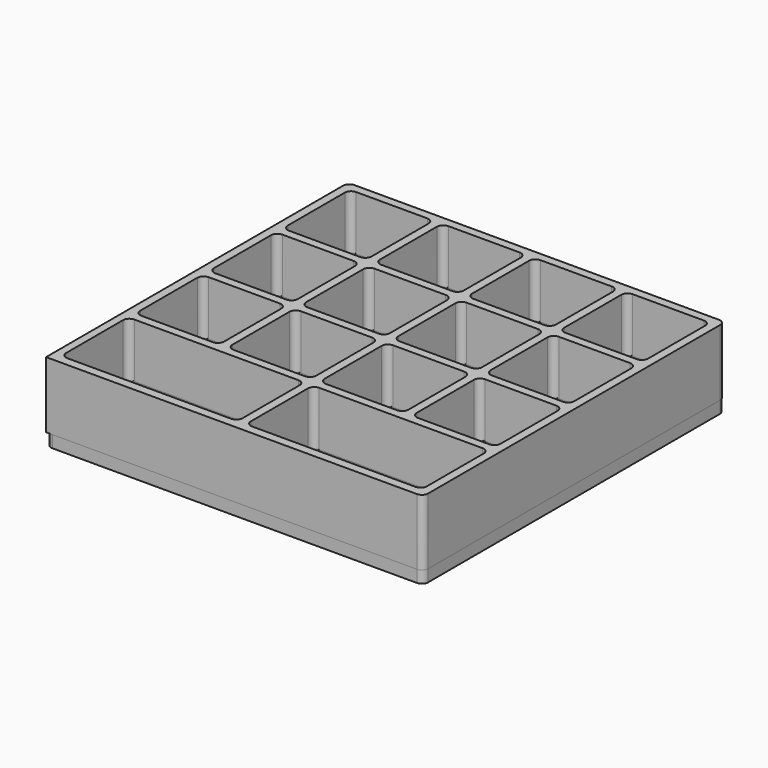
from build123d import *

# Parameters (mm, degrees)
SKETCH_W                = 90
SKETCH_H                = 90.113344
SKETCH_W_2              = 20
SKETCH_H_2              = 20
SKETCH_W_3              = 42.116366
SKETCH_W_4              = 42
PAD_DEPTH               = 15
SKETCH001_W             = 90
SKETCH001_H             = 90.113344
PAD001_DEPTH            = 0.8
FILLET_R                = 2
FILLET001_R             = 1.5
SKETCH002_W             = 89.934548
SKETCH002_H             = 90.017254
PAD002_DEPTH            = 1
SKETCH003_W             = 89.934548
SKETCH003_H             = 90.017254
SKETCH003_R             = 5.5
PAD003_DEPTH            = 2
FILLET002_R             = 1.5
BODY001_PLACEMENT_ANGLE = 180


with BuildPart() as body:
    # Sketch → Pad (new body)
    with BuildSketch(Plane.XY):
        with Locations((-1.617456, -0.207493)):
            Rectangle(SKETCH_W, SKETCH_H)
        with Locations((-34.617456, 32.849179)):
            Rectangle(SKETCH_W_2, SKETCH_H_2, mode=Mode.SUBTRACT)
        with Locations((-34.617456, 10.849179)):
            Rectangle(SKETCH_W_2, SKETCH_H_2, mode=Mode.SUBTRACT)
        with Locations((-12.617456, 32.849179)):
            Rectangle(SKETCH_W_2, SKETCH_H_2, mode=Mode.SUBTRACT)
        with Locations((-12.617456, 10.849179)):
            Rectangle(SKETCH_W_2, SKETCH_H_2, mode=Mode.SUBTRACT)
        with Locations((9.382544, 32.849179)):
            Rectangle(SKETCH_W_2, SKETCH_H_2, mode=Mode.SUBTRACT)
        with Locations((9.382544, 10.849179)):
            Rectangle(SKETCH_W_2, SKETCH_H_2, mode=Mode.SUBTRACT)
        with Locations((31.382544, 32.849179)):
            Rectangle(SKETCH_W_2, SKETCH_H_2, mode=Mode.SUBTRACT)
        with Locations((31.382544, 10.849179)):
            Rectangle(SKETCH_W_2, SKETCH_H_2, mode=Mode.SUBTRACT)
        with Locations((-34.617456, -11.150821)):
            Rectangle(SKETCH_W_2, SKETCH_H_2, mode=Mode.SUBTRACT)
        with Locations((-12.617456, -11.150821)):
            Rectangle(SKETCH_W_2, SKETCH_H_2, mode=Mode.SUBTRACT)
        with Locations((9.382544, -11.150821)):
            Rectangle(SKETCH_W_2, SKETCH_H_2, mode=Mode.SUBTRACT)
        with Locations((31.382544, -11.150821)):
            Rectangle(SKETCH_W_2, SKETCH_H_2, mode=Mode.SUBTRACT)
        with Locations((-23.675639, -33.150821)):
            Rectangle(SKETCH_W_3, SKETCH_H_2, mode=Mode.SUBTRACT)
        with Locations((20.382544, -33.150821)):
            Rectangle(SKETCH_W_4, SKETCH_H_2, mode=Mode.SUBTRACT)
    extrude(amount=PAD_DEPTH)

    # Sketch001 (on Face61 of Pad) → Pad001 (join)
    with BuildSketch(Plane(origin=(0, 0, 0), x_dir=(1, 0, 0), z_dir=(0, 0, -1))):
        with Locations((-1.617456, 0.207493)):
            Rectangle(SKETCH001_W, SKETCH001_H)
    extrude(amount=PAD001_DEPTH)

    # Fillet
    fillet_edges = [body.edges().sort_by_distance(p)[0] for p in [
        (-44.617456, 32.849179, 0),
        (-34.617456, 42.849179, 0),
        (-24.617456, 32.849179, 0),
        (-34.617456, 22.849179, 0),
        (-22.617456, 32.849179, 0),
        (-12.617456, 42.849179, 0),
        (-2.617456, 32.849179, 0),
        (-12.617456, 22.849179, 0),
        (-0.617456, 32.849179, 0),
        (9.382544, 42.849179, 0),
        (19.382544, 32.849179, 0),
        (9.382544, 22.849179, 0),
        (21.382544, 32.849179, 0),
        (31.382544, 42.849179, 0),
        (41.382544, 32.849179, 0),
        (31.382544, 22.849179, 0),
        (21.382544, 10.849179, 0),
        (31.382544, 20.849179, 0),
        (41.382544, 10.849179, 0),
        (31.382544, 0.849179, 0),
        (-0.617456, 10.849179, 0),
        (9.382544, 20.849179, 0),
        (19.382544, 10.849179, 0),
        (9.382544, 0.849179, 0),
        (-22.617456, 10.849179, 0),
        (-12.617456, 20.849179, 0),
        (-2.617456, 10.849179, 0),
        (-12.617456, 0.849179, 0),
        (-44.617456, 10.849179, 0),
        (-34.617456, 20.849179, 0),
        (-24.617456, 10.849179, 0),
        (-34.617456, 0.849179, 0),
        (-44.617456, -11.150821, 0),
        (-34.617456, -1.150821, 0),
        (-24.617456, -11.150821, 0),
        (-34.617456, -21.150821, 0),
        (-22.617456, -11.150821, 0),
        (-12.617456, -1.150821, 0),
        (-2.617456, -11.150821, 0),
        (-12.617456, -21.150821, 0),
        (-0.617456, -11.150821, 0),
        (9.382544, -1.150821, 0),
        (19.382544, -11.150821, 0),
        (9.382544, -21.150821, 0),
        (21.382544, -11.150821, 0),
        (31.382544, -1.150821, 0),
        (41.382544, -11.150821, 0),
        (31.382544, -21.150821, 0),
        (-0.617456, -33.150821, 0),
        (20.382544, -23.150821, 0),
        (41.382544, -33.150821, 0),
        (20.382544, -43.150821, 0),
        (-44.733822, -33.150821, 0),
        (-23.675639, -23.150821, 0),
        (-2.617456, -33.150821, 0),
        (-23.675639, -43.150821, 0),
    ]]
    fillet(fillet_edges, radius=FILLET_R)

    # Fillet001
    fillet001_edges = [body.edges().sort_by_distance(p)[0] for p in [
        (-46.617456, 44.849179, 7.5),
        (-44.617456, 42.849179, 8.5),
        (-24.617456, 42.849179, 8.5),
        (-22.617456, 42.849179, 8.5),
        (-2.617456, 42.849179, 8.5),
        (-0.617456, 42.849179, 8.5),
        (19.382544, 42.849179, 8.5),
        (21.382544, 42.849179, 8.5),
        (43.382544, 44.849179, 7.5),
        (41.382544, 42.849179, 8.5),
        (-44.617456, 22.849179, 8.5),
        (-44.617456, 20.849179, 8.5),
        (-24.617456, 22.849179, 8.5),
        (-22.617456, 22.849179, 8.5),
        (-24.617456, 20.849179, 8.5),
        (-22.617456, 20.849179, 8.5),
        (-2.617456, 22.849179, 8.5),
        (-0.617456, 22.849179, 8.5),
        (-2.617456, 20.849179, 8.5),
        (-0.617456, 20.849179, 8.5),
        (19.382544, 22.849179, 8.5),
        (21.382544, 22.849179, 8.5),
        (19.382544, 20.849179, 8.5),
        (21.382544, 20.849179, 8.5),
        (41.382544, 22.849179, 8.5),
        (41.382544, 20.849179, 8.5),
        (-44.617456, 0.849179, 8.5),
        (-44.617456, -1.150821, 8.5),
        (-24.617456, 0.849179, 8.5),
        (-22.617456, 0.849179, 8.5),
        (-24.617456, -1.150821, 8.5),
        (-22.617456, -1.150821, 8.5),
        (-2.617456, 0.849179, 8.5),
        (-0.617456, 0.849179, 8.5),
        (-2.617456, -1.150821, 8.5),
        (-0.617456, -1.150821, 8.5),
        (19.382544, 0.849179, 8.5),
        (21.382544, 0.849179, 8.5),
        (19.382544, -1.150821, 8.5),
        (21.382544, -1.150821, 8.5),
        (41.382544, 0.849179, 8.5),
        (41.382544, -1.150821, 8.5),
        (-44.617456, -21.150821, 8.5),
        (-44.733822, -23.150821, 8.5),
        (-24.617456, -21.150821, 8.5),
        (-22.617456, -21.150821, 8.5),
        (-2.617456, -21.150821, 8.5),
        (-0.617456, -21.150821, 8.5),
        (-2.617456, -23.150821, 8.5),
        (-0.617456, -23.150821, 8.5),
        (41.382544, -23.150821, 8.5),
        (41.382544, -21.150821, 8.5),
        (19.382544, -21.150821, 8.5),
        (21.382544, -21.150821, 8.5),
        (-44.733822, -43.150821, 8.5),
        (-2.617456, -43.150821, 8.5),
        (-0.617456, -43.150821, 8.5),
        (43.382544, -45.264165, 7.5),
        (41.382544, -43.150821, 8.5),
    ]]
    fillet(fillet001_edges, radius=FILLET001_R)


with BuildPart() as body001:
    # Sketch002 → Pad002 (new body)
    with BuildSketch(Plane.XY):
        with Locations((-1.575817, -0.223715)):
            Rectangle(SKETCH002_W, SKETCH002_H)
    extrude(amount=-PAD002_DEPTH)

    # Sketch003 (on Face6 of Pad002) → Pad003 (join)
    with BuildSketch(Plane(origin=(0, 0, -1), x_dir=(1, 0, 0), z_dir=(0, 0, -1))):
        with Locations((-1.575817, 0.223715)):
            Rectangle(SKETCH003_W, SKETCH003_H)
        with Locations((-23.607103, 33.235943)):
            Circle(SKETCH003_R, mode=Mode.SUBTRACT)
        with Locations((20.392897, 33.235943)):
            Circle(SKETCH003_R, mode=Mode.SUBTRACT)
        with Locations((-34.531259, 11.235943)):
            Circle(SKETCH003_R, mode=Mode.SUBTRACT)
        with Locations((-12.531259, 11.235943)):
            Circle(SKETCH003_R, mode=Mode.SUBTRACT)
        with Locations((9.468741, 11.235943)):
            Circle(SKETCH003_R, mode=Mode.SUBTRACT)
        with Locations((31.468741, 11.235943)):
            Circle(SKETCH003_R, mode=Mode.SUBTRACT)
        with Locations((-34.531259, -10.764057)):
            Circle(SKETCH003_R, mode=Mode.SUBTRACT)
        with Locations((-12.531259, -10.764057)):
            Circle(SKETCH003_R, mode=Mode.SUBTRACT)
        with Locations((9.444141, -10.764057)):
            Circle(SKETCH003_R, mode=Mode.SUBTRACT)
        with Locations((31.419542, -10.764057)):
            Circle(SKETCH003_R, mode=Mode.SUBTRACT)
        with Locations((-34.531259, -32.764057)):
            Circle(SKETCH003_R, mode=Mode.SUBTRACT)
        with Locations((-12.531259, -32.764057)):
            Circle(SKETCH003_R, mode=Mode.SUBTRACT)
        with Locations((9.409675, -32.764057)):
            Circle(SKETCH003_R, mode=Mode.SUBTRACT)
        with Locations((31.350609, -32.764057)):
            Circle(SKETCH003_R, mode=Mode.SUBTRACT)
    extrude(amount=PAD003_DEPTH)

    # Fillet002
    fillet002_edges = [body001.edges().sort_by_distance(p)[0] for p in [
        (-46.543091, -45.232342, -2),
        (-46.543091, 44.784912, -2),
        (43.391457, 44.784912, -2),
        (43.391457, -45.232342, -2),
    ]]
    fillet(fillet002_edges, radius=FILLET002_R)


with BuildPart() as body001_1:
    # Body001 placement: moved
    add(body001.part.moved(Location((-3.2, 0, -3.7))).rotate(Axis((-3.2, 0, -3.7), (0, 1, 0)), BODY001_PLACEMENT_ANGLE))


solid = Compound([body.part, body001_1.part])
